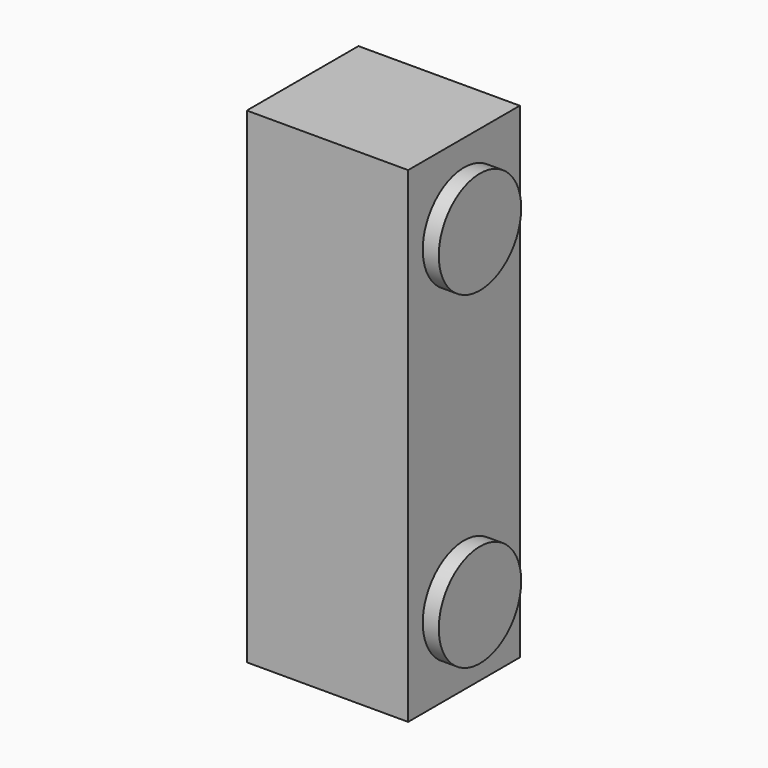
from build123d import *

# Parameters (mm, degrees)
F0_W          = 67.630976
F0_H          = 58.502942
F1_DEPTH      = 101.344071
F1_DEPTH_BACK = 102.304079
F2_R          = 21.597403
F3_DEPTH      = 6.715551


with BuildPart() as f1:
    # F0 (on Top) → F1 (new body, two sides)
    with BuildSketch(Plane.XY) as f1_sk:
        Rectangle(F0_W, F0_H)
    extrude(amount=F1_DEPTH)
    extrude(f1_sk.sketch, amount=-F1_DEPTH_BACK)

    # F2 (on face) → F3 (join)
    with BuildSketch(Plane.YZ.offset(33.815488)):
        with Locations((0, 68.826675)):
            Circle(F2_R)
        with Locations((0, -68.826675)):
            Circle(F2_R)
    extrude(amount=F3_DEPTH)


solid = f1.part
